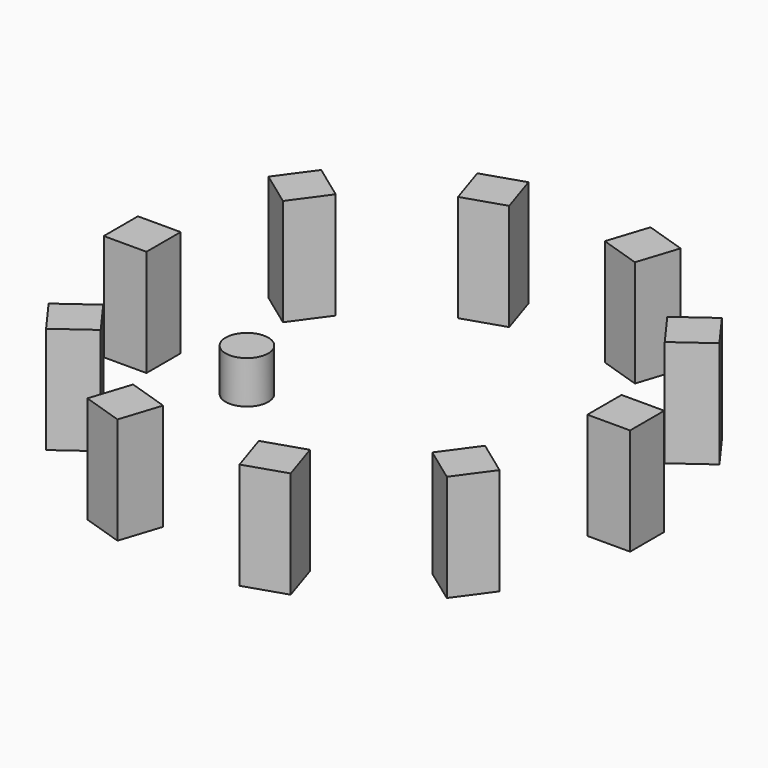
from build123d import *

# Parameters (mm, degrees)
F0_W     = 10
F0_H     = 10
F1_DEPTH = 25
F3_COUNT = 10
F4_R     = 5
F5_DEPTH = 10


with BuildPart() as f1:
    # F0 (on Top) → F1 (new body)
    with BuildSketch(Plane.XY):
        with Locations((-56.619525, 0)):
            Rectangle(F0_W, F0_H)
    extrude(amount=F1_DEPTH)


with BuildPart() as f3_1:
    # F3: instance of F1
    add(f1.part.rotate(Axis((0, 0, 19.591698), (0, 0, 1)), 1 * 360 / F3_COUNT))


with BuildPart() as f3_2:
    # F3: instance of F1
    add(f1.part.rotate(Axis((0, 0, 19.591698), (0, 0, 1)), 2 * 360 / F3_COUNT))


with BuildPart() as f3_3:
    # F3: instance of F1
    add(f1.part.rotate(Axis((0, 0, 19.591698), (0, 0, 1)), 3 * 360 / F3_COUNT))


with BuildPart() as f3_4:
    # F3: instance of F1
    add(f1.part.rotate(Axis((0, 0, 19.591698), (0, 0, 1)), 4 * 360 / F3_COUNT))


with BuildPart() as f3_5:
    # F3: instance of F1
    add(f1.part.rotate(Axis((0, 0, 19.591698), (0, 0, 1)), 5 * 360 / F3_COUNT))


with BuildPart() as f3_6:
    # F3: instance of F1
    add(f1.part.rotate(Axis((0, 0, 19.591698), (0, 0, 1)), 6 * 360 / F3_COUNT))


with BuildPart() as f3_7:
    # F3: instance of F1
    add(f1.part.rotate(Axis((0, 0, 19.591698), (0, 0, 1)), 7 * 360 / F3_COUNT))


with BuildPart() as f3_8:
    # F3: instance of F1
    add(f1.part.rotate(Axis((0, 0, 19.591698), (0, 0, 1)), 8 * 360 / F3_COUNT))


with BuildPart() as f3_9:
    # F3: instance of F1
    add(f1.part.rotate(Axis((0, 0, 19.591698), (0, 0, 1)), 9 * 360 / F3_COUNT))


with BuildPart() as f5:
    # F4 (on Top) → F5 (new body)
    with BuildSketch(Plane.XY):
        with Locations((-32.093979, 0)):
            Circle(F4_R)
    extrude(amount=F5_DEPTH)


solid = Compound([f1.part, f3_1.part, f3_2.part, f3_3.part, f3_4.part, f3_5.part, f3_6.part, f3_7.part, f3_8.part, f3_9.part, f5.part])
